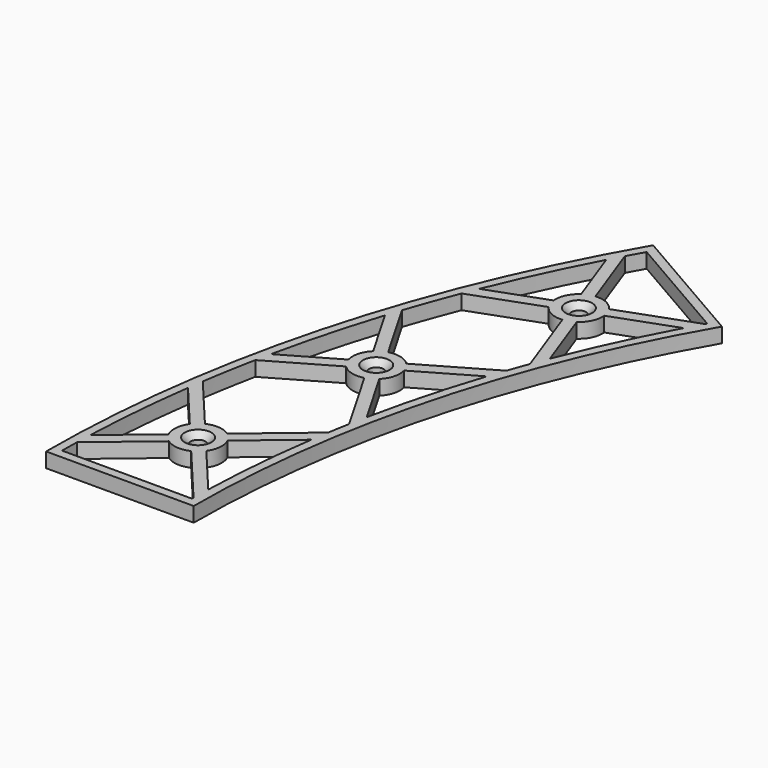
from build123d import *

# Parameters (mm, degrees)
SKETCH_R     = 2.5
PAD_DEPTH    = 5
CHAMFER_SIZE = 2


with BuildPart() as part:
    # Sketch → Pad (new body)
    with BuildSketch(Plane.XY):
        with BuildLine():
            ThreePointArc((51.58022, 192.5), (13.118557, 99.645332), (0, 0))
            Line((50, 0), (0, 0))
            ThreePointArc((94.88149, 167.5), (61.414848, 86.70438), (50, 0))
            Line((94.88149, 167.5), (51.58022, 192.5))
        make_face()
        with Locations((26.369909, 31.376067)):
            Circle(SKETCH_R, mode=Mode.SUBTRACT)
        with Locations((58.729197, 152.142574)):
            Circle(SKETCH_R, mode=Mode.SUBTRACT)
        with Locations((37.266703, 93.174856)):
            Circle(SKETCH_R, mode=Mode.SUBTRACT)
        with BuildLine():
            ThreePointArc((52.678296, 188.401924), (51.150584, 185.681361), (49.645145, 182.948411))
            Line((57.959305, 160.105442), (49.645145, 182.948411))
            ThreePointArc((65.323984, 156.671236), (62.110143, 159.393037), (57.959305, 160.105442))
            Line((65.323984, 156.671236), (90.453773, 165.817731))
            ThreePointArc((90.783414, 166.401924), (90.618448, 166.109909), (90.453773, 165.817731))
            Line((90.783414, 166.401924), (52.678296, 188.401924))
        make_face(mode=Mode.SUBTRACT)
        with BuildLine():
            Line((47, 3), (3, 3))
            ThreePointArc((3.099971, 9.239456), (3.037245, 6.119932), (3, 3))
            Line((21.721729, 24.864967), (3.099971, 9.239456))
            ThreePointArc((21.721729, 24.864967), (25.672663, 23.40651), (29.816831, 24.156737))
            Line((29.816831, 24.156737), (47.006619, 3.670746))
            ThreePointArc((47.006619, 3.670746), (47.003143, 3.335375), (47, 3))
        make_face(mode=Mode.SUBTRACT)
        with BuildLine():
            ThreePointArc((19.858808, 36.024247), (18.400351, 32.073313), (19.150579, 27.929145))
            Line((19.150579, 27.929145), (3.267378, 14.601557))
            ThreePointArc((6.531221, 51.907447), (4.44189, 33.29452), (3.267378, 14.601557))
            Line((19.858808, 36.024247), (6.531221, 51.907447))
        make_face(mode=Mode.SUBTRACT)
        with BuildLine():
            Line((22.922986, 38.595397), (7.297475, 57.217156))
            ThreePointArc((10.506305, 75.415332), (8.791837, 66.335649), (7.297475, 57.217156))
            Line((31.558499, 87.569822), (10.506305, 75.415332))
            ThreePointArc((31.558499, 87.569822), (35.19615, 85.44745), (39.407635, 85.466652))
            Line((39.407635, 85.466652), (52.778916, 62.306914))
            ThreePointArc((52.778916, 62.306914), (52.121868, 58.695396), (51.50408, 55.076955))
            Line((31.018088, 37.887168), (51.50408, 55.076955))
            ThreePointArc((31.018088, 37.887168), (27.067155, 39.345625), (22.922986, 38.595397))
        make_face(mode=Mode.SUBTRACT)
        with BuildLine():
            Line((32.881009, 26.727888), (47.127329, 9.749785))
            ThreePointArc((50.567342, 49.06931), (48.272929, 29.459801), (47.127329, 9.749785))
            Line((33.589239, 34.82299), (50.567342, 49.06931))
            ThreePointArc((32.881009, 26.727888), (34.339466, 30.678821), (33.589239, 34.82299))
        make_face(mode=Mode.SUBTRACT)
        with BuildLine():
            ThreePointArc((54.200535, 158.737362), (51.478734, 155.52352), (50.766329, 151.372683))
            Line((50.766329, 151.372683), (31.282699, 144.281222))
            ThreePointArc((47.109074, 178.220991), (38.779749, 161.445154), (31.282699, 144.281222))
            Line((54.200535, 158.737362), (47.109074, 178.220991))
        make_face(mode=Mode.SUBTRACT)
        with BuildLine():
            Line((52.134409, 147.613912), (29.291441, 139.299752))
            ThreePointArc((29.291441, 139.299752), (26.026349, 130.655724), (22.97128, 121.935254))
            Line((35.12577, 100.88306), (22.97128, 121.935254))
            ThreePointArc((42.974906, 98.77989), (39.337255, 100.902263), (35.12577, 100.88306))
            Line((42.974906, 98.77989), (66.134645, 112.151172))
            ThreePointArc((68.645583, 119.049918), (67.371384, 115.607362), (66.134645, 112.151172))
            Line((59.499088, 144.179706), (68.645583, 119.049918))
            ThreePointArc((52.134409, 147.613912), (55.348251, 144.892112), (59.499088, 144.179706))
        make_face(mode=Mode.SUBTRACT)
        with BuildLine():
            Line((63.257859, 145.547787), (70.838167, 124.72106))
            ThreePointArc((87.518791, 160.492774), (78.655902, 142.850599), (70.838167, 124.72106))
            Line((66.692065, 152.912466), (87.518791, 160.492774))
            ThreePointArc((63.257859, 145.547787), (65.979659, 148.761628), (66.692065, 152.912466))
        make_face(mode=Mode.SUBTRACT)
        with BuildLine():
            Line((42.871737, 87.466652), (53.953407, 68.272637))
            ThreePointArc((64.168922, 106.397459), (58.504211, 87.484283), (53.953407, 68.272637))
            Line((44.974906, 95.315789), (64.168922, 106.397459))
            ThreePointArc((42.871737, 87.466652), (44.994109, 91.104304), (44.974906, 95.315789))
        make_face(mode=Mode.SUBTRACT)
        with BuildLine():
            Line((29.558499, 91.033924), (11.602288, 80.666901))
            ThreePointArc((21.294646, 116.83927), (16.004956, 98.871924), (11.602288, 80.666901))
            Line((31.661668, 98.88306), (21.294646, 116.83927))
            ThreePointArc((31.661668, 98.88306), (29.539296, 95.245409), (29.558499, 91.033924))
        make_face(mode=Mode.SUBTRACT)
    extrude(amount=PAD_DEPTH)

    # Chamfer
    chamfer_edges = [part.edges().sort_by_distance(p)[0] for p in [
        (23.869909, 31.376067, 5),
        (34.766703, 93.174856, 5),
        (56.229197, 152.142574, 5),
    ]]
    chamfer(chamfer_edges, length=CHAMFER_SIZE)


solid = part.part
